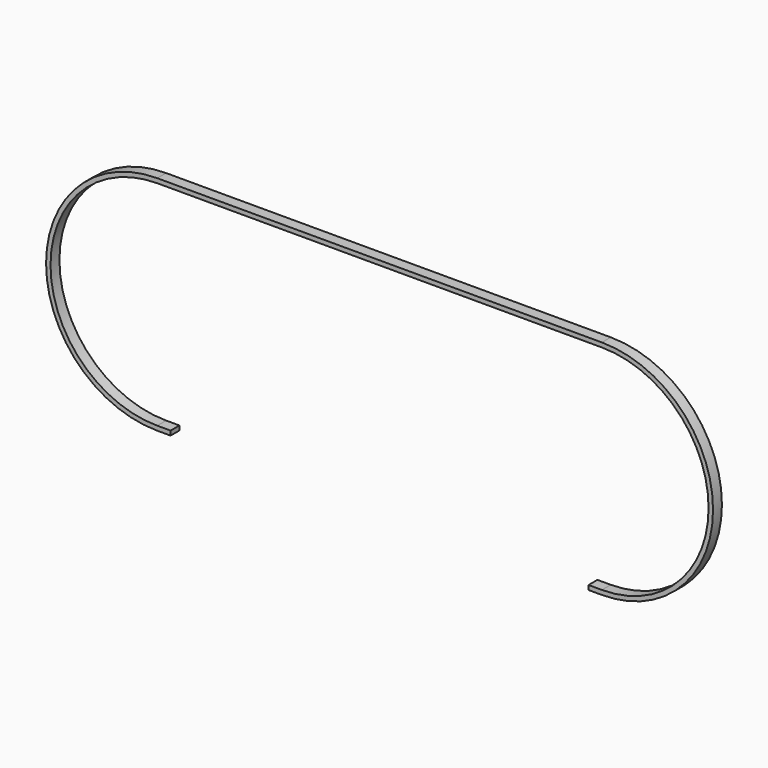
from build123d import *

# Parameters (mm, degrees)
F0_W     = 2000
F0_H     = 20
F0_W_2   = 60
F1_DEPTH = 50


with BuildPart() as f1:
    # F0 (on Front) → F1 (new body)
    with BuildSketch(Plane.XZ):
        Rectangle(F0_W, F0_H)
        with BuildLine():
            Line((-1000, -10), (-1000, 10))
            ThreePointArc((-1000, 10), (-1500, -490), (-1000, -990))
            Line((-1000, -990), (-940, -990))
            Line((-940, -990), (-940, -970))
            Line((-940, -970), (-1000, -970))
            ThreePointArc((-1000, -970), (-1480, -490), (-1000, -10))
        make_face()
        with BuildLine():
            ThreePointArc((1000, -990), (1500, -490), (1000, 10))
            Line((1000, 10), (1000, -10))
            ThreePointArc((1000, -10), (1480, -490), (1000, -970))
            Line((1000, -970), (1000, -990))
        make_face()
        with Locations((970, -980)):
            Rectangle(F0_W_2, F0_H)
    extrude(amount=F1_DEPTH)


solid = f1.part
